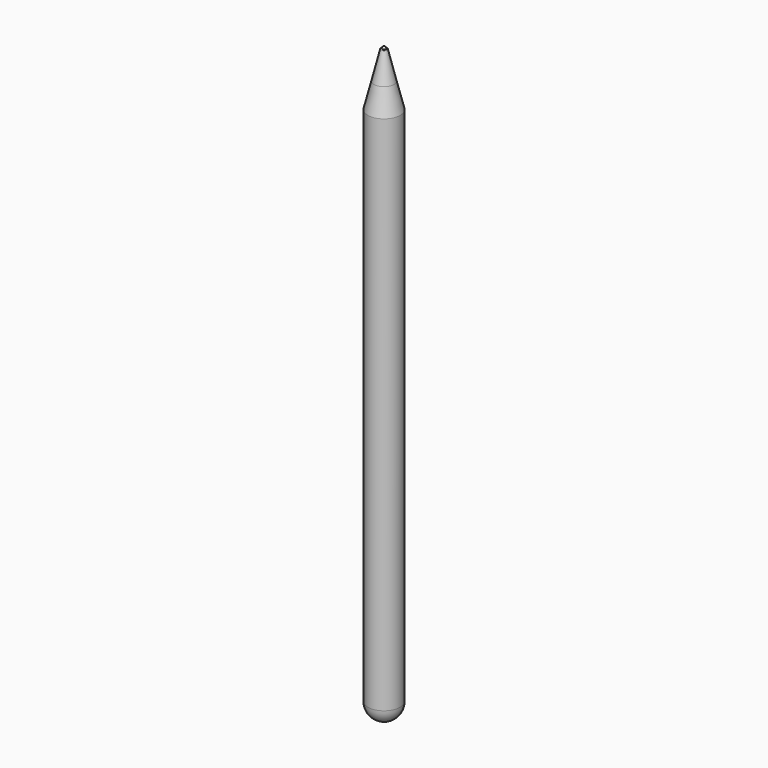
from build123d import *

# Parameters (mm, degrees)
SKETCH_R        = 4.5
PAD_DEPTH       = 145.5
SKETCH001_W     = 4
SKETCH001_H     = 3.989153
POCKET_DEPTH    = 150
SKETCH002_R     = 0.4
POCKET001_DEPTH = 10
FILLET_R        = 0.2
SKETCH003_W     = 0.8
SKETCH003_H     = 7
PAD001_DEPTH    = 3
FILLET001_R     = 1


with BuildPart() as part:
    # Sketch → Pad (new body)
    with BuildSketch(Plane.XY):
        Circle(SKETCH_R)
    extrude(amount=PAD_DEPTH)

    # Cone → Cone (revolve)
    with BuildSketch(Plane(origin=(0, 0, 145.5), x_dir=(0, 1, 0), z_dir=(1, 0, 0))):
        Polygon((0, 0), (4.5, 0), (2.75, 7), (0, 7), align=None)
    revolve(axis=Axis((0, 0, 145.5), (0, 0, 1)))

    # Sphere001 → Sphere001 (revolve)
    with BuildSketch(Plane.XZ):
        with BuildLine():
            ThreePointArc((0, -4.5), (4.5, 0), (0, 4.5))
            Line((0, 4.5), (0, -4.5))
        make_face()
    revolve(axis=Axis((0, 0, 0), (0, 0, 1)))

    # Sketch001 → Pocket (cut, symmetric)
    with BuildSketch(Plane.XY):
        with Locations((0, 6.025705)):
            Rectangle(SKETCH001_W, SKETCH001_H)
    extrude(amount=POCKET_DEPTH, both=True, mode=Mode.SUBTRACT)

    # Sketch002 → Pocket001 (cut)
    with BuildSketch(Plane.XZ):
        with Locations((0, 19.9)):
            Circle(SKETCH002_R)
        with Locations((0, 21.9)):
            Circle(SKETCH002_R)
        with Locations((0, 23.9)):
            Circle(SKETCH002_R)
        with Locations((0, 25.9)):
            Circle(SKETCH002_R)
        with BuildLine():
            Line((-1.25, 14.25), (-1.25, 8.25))
            ThreePointArc((-1.25, 8.25), (0, 7), (1.25, 8.25))
            Line((1.25, 8.25), (1.25, 14.25))
            ThreePointArc((1.25, 14.25), (0, 15.5), (-1.25, 14.25))
        make_face()
    extrude(amount=-POCKET001_DEPTH, mode=Mode.SUBTRACT)

    # Cone001 → Cone001 (revolve)
    with BuildSketch(Plane(origin=(0, 0, 152.5), x_dir=(1, 0, 0), z_dir=(0, -1, 0))):
        Polygon((0, 0), (2.75, 0), (0.8, 8), (0, 8), align=None)
    revolve(axis=Axis((0, 0, 152.5), (0, 0, 1)))

    # Sphere → Sphere (revolve)
    with BuildSketch(Plane(origin=(0, 0, 160.5), x_dir=(1, 0, 0), z_dir=(0, -1, 0))):
        with BuildLine():
            ThreePointArc((0, -0.5), (0.5, 0), (0, 0.5))
            Line((0, 0.5), (0, -0.5))
        make_face()
    revolve(axis=Axis((0, 0, 160.5), (0, 0, 1)))

    # Fillet
    fillet_edges = [part.edges().sort_by_distance(p)[0] for p in [
        (-0.8, 0, 160.5),
    ]]
    fillet(fillet_edges, radius=FILLET_R)

    # Sketch003 → Pad001 (join)
    with BuildSketch(Plane.XZ):
        with Locations((0, 11.5)):
            Rectangle(SKETCH003_W, SKETCH003_H)
    extrude(amount=-PAD001_DEPTH)

    # Fillet001
    fillet001_edges = [part.edges().sort_by_distance(p)[0] for p in [
        (0, 3, 8),
        (0, 3, 15),
    ]]
    fillet(fillet001_edges, radius=FILLET001_R)


solid = part.part
